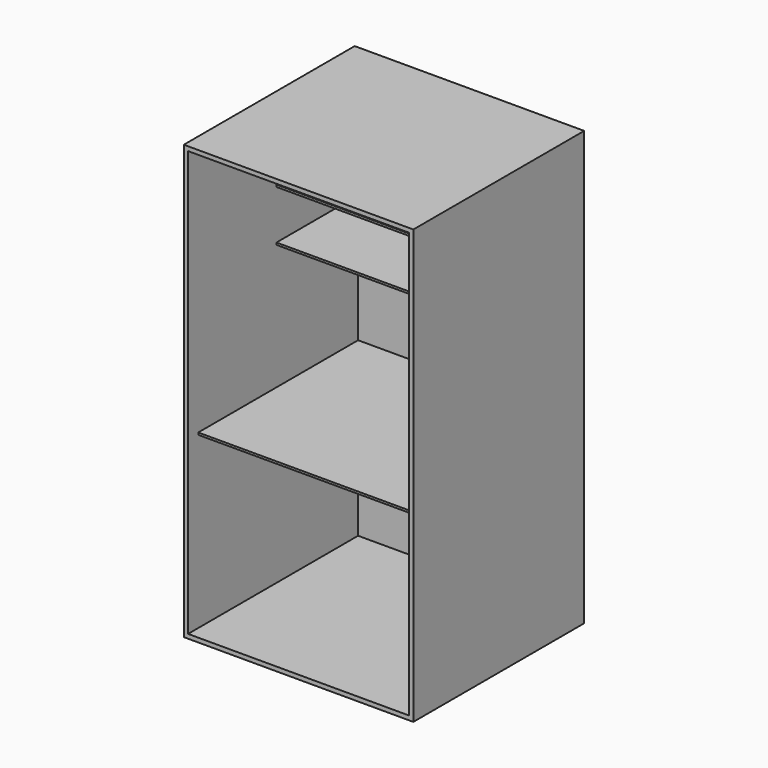
from build123d import *

# Parameters (mm, degrees)
F0_W     = 1371.6
F0_H     = 2590.8
F0_W_2   = 1320.8
F0_H_2   = 2540
F1_DEPTH = 1270
F2_W     = 1193.8
F2_H     = 12.7
F2_W_2   = 609.6
F3_DEPTH = 1320.8
F4_W     = 1371.6
F4_H     = 2590.8
F5_DEPTH = 6.35


with BuildPart() as f1:
    # F0 (on Front) → F1 (new body)
    with BuildSketch(Plane.XZ):
        with Locations((660.4, 1270)):
            Rectangle(F0_W, F0_H)
        with Locations((660.4, 1270)):
            Rectangle(F0_W_2, F0_H_2, mode=Mode.SUBTRACT)
    extrude(amount=F1_DEPTH)

    # F2 (on face) → F3 (join, through all)
    with BuildSketch(Plane.YZ):
        with Locations((-596.9, 1022.35)):
            Rectangle(F2_W, F2_H)
        with Locations((-304.8, 2089.15)):
            Rectangle(F2_W_2, F2_H)
        with Locations((-304.8, 1784.35)):
            Rectangle(F2_W_2, F2_H)
    extrude(amount=F3_DEPTH)

    # F4 (on face) → F5 (join)
    with BuildSketch(Plane(origin=(0, 0, 0), x_dir=(-1, 0, 0), z_dir=(0, 1, 0))):
        with Locations((-660.4, 1270)):
            Rectangle(F4_W, F4_H)
    extrude(amount=F5_DEPTH)


solid = f1.part
